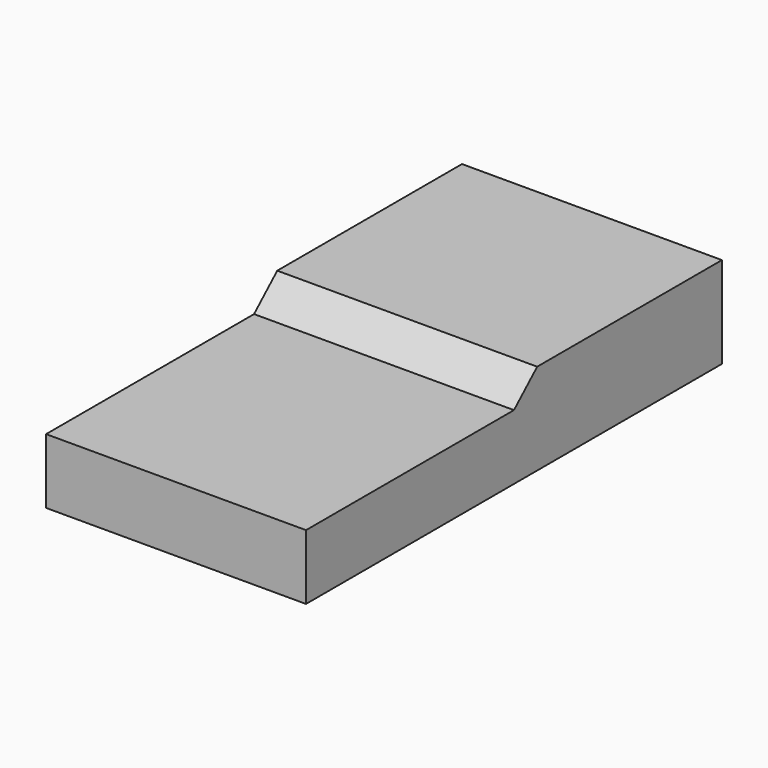
from build123d import *

# Parameters (mm, degrees)
F0_W     = 100
F0_H     = 200
F1_DEPTH = 25
F2_W     = 100
F2_H     = 10.1669974625
F3_DEPTH = 100
F5_DEPTH = 200


with BuildPart() as f1:
    # F0 (on Top) → F1 (new body)
    with BuildSketch(Plane.XY):
        Rectangle(F0_W, F0_H)
    extrude(amount=F1_DEPTH)

    # F2 (on face) → F3 (join)
    with BuildSketch(Plane.YZ.offset(50)):
        with Locations((50, 30.0834987313)):
            Rectangle(F2_W, F2_H)
    extrude(amount=-F3_DEPTH)

    # F4 (on face) → F5 (cut)
    with BuildSketch(Plane.YZ.offset(50)):
        Polygon((0, 35.1669974625), (0, 25), (11.165715754, 35.1669974625), align=None)
    extrude(amount=-F5_DEPTH, mode=Mode.SUBTRACT)


solid = f1.part
